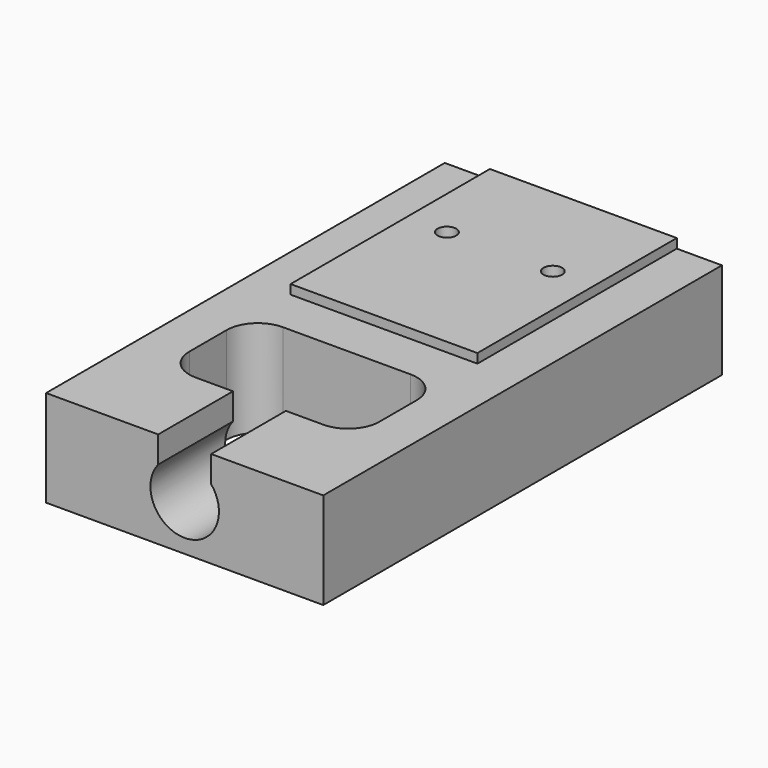
from build123d import *

# Parameters (mm, degrees)
F4_DEPTH  = 8.9
F6_W      = 6
F6_H      = 8
F7_DEPTH  = 3.7
F8_R      = 0.3
F9_DEPTH  = 3.701
F11_DEPTH = 3


with BuildPart() as f4:
    # F3 (on Right) → F4 (new body)
    with BuildSketch(Plane.YZ):
        Polygon((0, 1.55), (0, 0), (0, -1.55), (16, -1.55), (16, 0), (16, 1.55), align=None)
    extrude(amount=F4_DEPTH)

    # F6 (on offset) → F7 (join)
    with BuildSketch(Plane.XY.offset(1.85)):
        with Locations((4.45, 12)):
            Rectangle(F6_W, F6_H)
    extrude(amount=-F7_DEPTH)

    # F8 (on offset) → F9 (cut, through all)
    with BuildSketch(Plane.XY.offset(1.85)):
        with BuildLine():
            ThreePointArc((1.4, 4), (1.6928932188, 3.2928932188), (2.4, 3))
            Line((2.4, 3), (6.5, 3))
            ThreePointArc((6.5, 3), (7.2071067812, 3.2928932188), (7.5, 4))
            Line((7.5, 4), (7.5, 5.5))
            ThreePointArc((7.5, 5.5), (7.2071067812, 6.2071067812), (6.5, 6.5))
            Line((6.5, 6.5), (2.4, 6.5))
            ThreePointArc((2.4, 6.5), (1.6928932188, 6.2071067812), (1.4, 5.5))
            Line((1.4, 5.5), (1.4, 4))
        make_face()
        with Locations((2.75, 12.65)):
            Circle(F8_R)
        with Locations((6.15, 12.65)):
            Circle(F8_R)
    extrude(amount=-F9_DEPTH, mode=Mode.SUBTRACT)

    # F10 (on face) → F11 (cut, through all)
    with BuildSketch(Plane.XZ):
        with BuildLine():
            Line((5.3, 1.55), (3.6, 1.55))
            Line((3.6, 1.55), (3.6, 0.6982120022))
            ThreePointArc((3.6, 0.6982120022), (4.45, -1.1), (5.3, 0.6982120022))
            Line((5.3, 0.6982120022), (5.3, 1.55))
        make_face()
    extrude(amount=-F11_DEPTH, mode=Mode.SUBTRACT)


solid = f4.part
